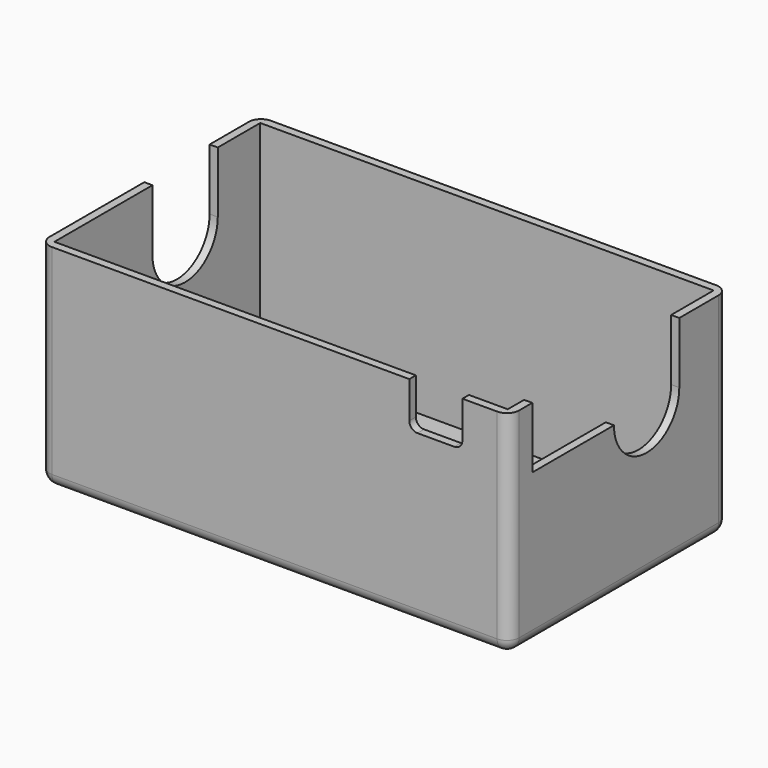
from build123d import *

# Parameters (mm, degrees)
F0_W     = 115
F0_H     = 67
F1_DEPTH = 52
F2_T     = -2
F3_R     = 3
F5_DEPTH = 115
F6_W     = 25
F6_H     = 15
F7_DEPTH = 2
F9_DEPTH = 2


with BuildPart() as f1:
    # F0 (on Top) → F1 (new body)
    with BuildSketch(Plane.XY):
        Rectangle(F0_W, F0_H)
    extrude(amount=F1_DEPTH)

    # F2
    f2_openings = [f1.faces().sort_by_distance(p)[0] for p in [
        (0, 0, 52),
    ]]
    offset(amount=F2_T, openings=f2_openings)

    # F3
    f3_edges = [f1.edges().sort_by_distance(p)[0] for p in [
        (57.5, 33.5, 26),
        (57.5, -33.5, 26),
        (-57.5, -33.5, 26),
        (-57.5, 33.5, 26),
        (-57.5, 0, 0),
        (0, -33.5, 0),
        (0, 33.5, 0),
        (57.5, 0, 0),
    ]]
    fillet(f3_edges, radius=F3_R)

    # F4 (on face) → F5 (cut, through all)
    with BuildSketch(Plane(origin=(-57.5, 0, 0), x_dir=(0, -1, 0), z_dir=(-1, 0, 0))):
        with BuildLine():
            Line((-8.5, 52), (-18.5, 52))
            Line((-18.5, 52), (-18.5, 37))
            ThreePointArc((-18.5, 37), (-8.5, 27), (1.5, 37))
            Line((1.5, 37), (1.5, 52))
            Line((1.5, 52), (-8.5, 52))
        make_face()
    extrude(amount=-F5_DEPTH, mode=Mode.SUBTRACT)

    # F6 (on face) → F7 (cut, through all)
    with BuildSketch(Plane.YZ.offset(57.5)):
        with Locations((-14, 44.5)):
            Rectangle(F6_W, F6_H)
    extrude(amount=-F7_DEPTH, mode=Mode.SUBTRACT)

    # F8 (on face) → F9 (cut, through all)
    with BuildSketch(Plane.XZ.offset(33.5)):
        with BuildLine():
            Line((46, 52), (33, 52))
            Line((33, 52), (33, 43))
            ThreePointArc((33, 43), (33.5857864376, 41.5857864376), (35, 41))
            Line((35, 41), (44, 41))
            ThreePointArc((44, 41), (45.4142135624, 41.5857864376), (46, 43))
            Line((46, 43), (46, 52))
        make_face()
    extrude(amount=-F9_DEPTH, mode=Mode.SUBTRACT)


solid = f1.part
